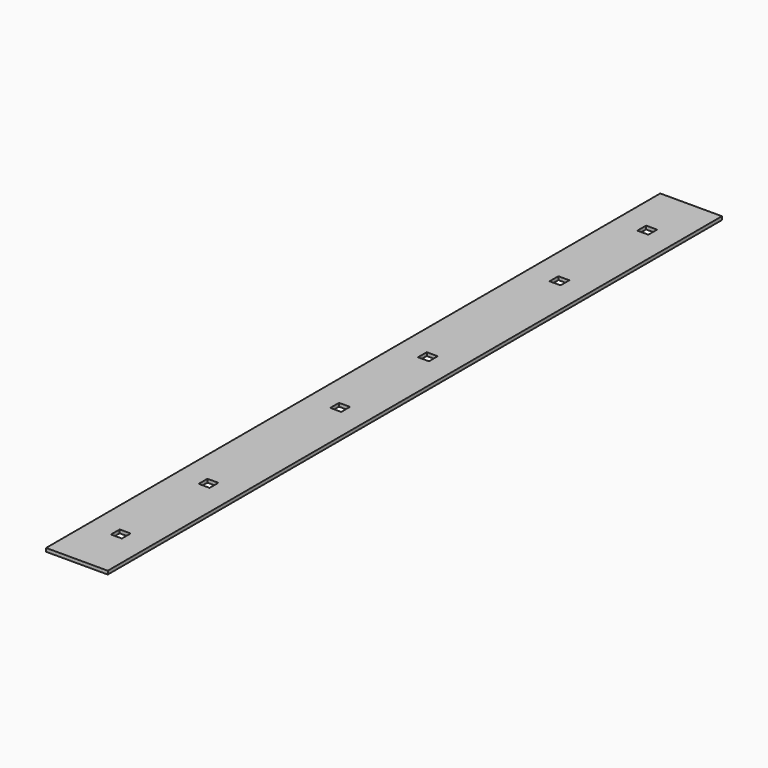
from build123d import *

# Parameters (mm, degrees)
F0_W     = 57.15
F0_H     = 711.2
F0_W_2   = 10.16
F0_H_2   = 10.16
F1_DEPTH = 3.175


with BuildPart() as f1:
    # F0 (on Top) → F1 (new body)
    with BuildSketch(Plane.XY):
        with Locations((44.45, 381)):
            Rectangle(F0_W, F0_H)
        with Locations((44.45, 76.2)):
            Rectangle(F0_W_2, F0_H_2, mode=Mode.SUBTRACT)
        with Locations((44.45, 177.8)):
            Rectangle(F0_W_2, F0_H_2, mode=Mode.SUBTRACT)
        with Locations((44.45, 330.2)):
            Rectangle(F0_W_2, F0_H_2, mode=Mode.SUBTRACT)
        with Locations((44.45, 431.8)):
            Rectangle(F0_W_2, F0_H_2, mode=Mode.SUBTRACT)
        with Locations((44.45, 584.2)):
            Rectangle(F0_W_2, F0_H_2, mode=Mode.SUBTRACT)
        with Locations((44.45, 685.8)):
            Rectangle(F0_W_2, F0_H_2, mode=Mode.SUBTRACT)
    extrude(amount=F1_DEPTH)


solid = f1.part
